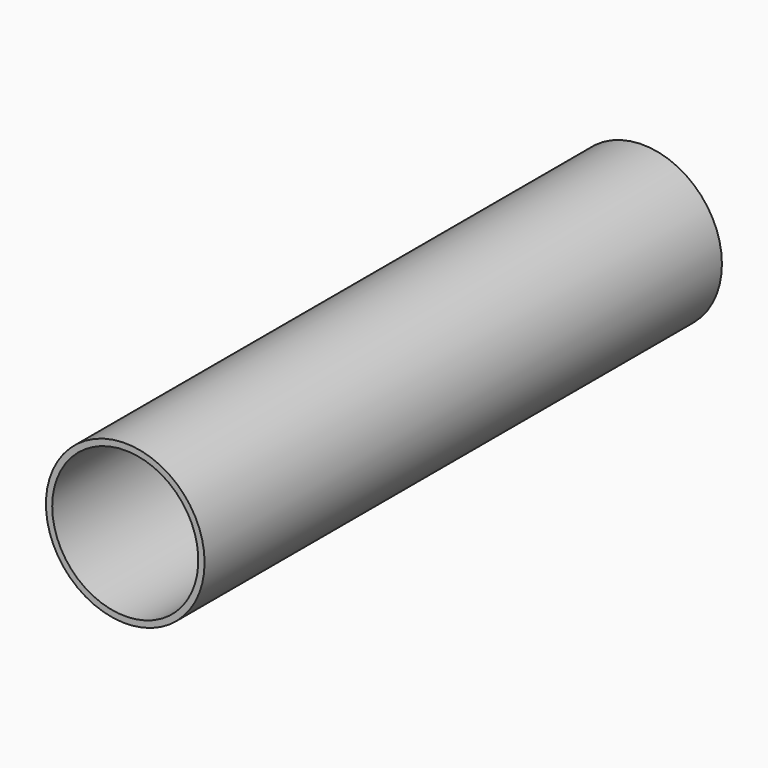
from build123d import *

# Parameters (mm, degrees)
F0_R      = 49.071094
F1_DEPTH  = 400
F2_R      = 45.183213
F3_DEPTH  = 408.94
F3_FACE_R = 45.183213
F4_DEPTH  = 500.38


with BuildPart() as f1:
    # F0 (on Front) → F1 (new body)
    with BuildSketch(Plane.XZ):
        Circle(F0_R)
    extrude(amount=-F1_DEPTH)

    # F2 (on face) → F3 (join)
    with BuildSketch(Plane(origin=(0, 400, 0), x_dir=(-1, 0, 0), z_dir=(0, 1, 0))):
        Circle(F2_R)
    extrude(amount=-F3_DEPTH)

    # F3_face (on face) → F4 (cut)
    with BuildSketch(Plane(origin=(0, -8.94, 0), x_dir=(-1, 0, 0), z_dir=(0, -1, 0))):
        Circle(F3_FACE_R)
    extrude(amount=-F4_DEPTH, mode=Mode.SUBTRACT)


solid = f1.part
